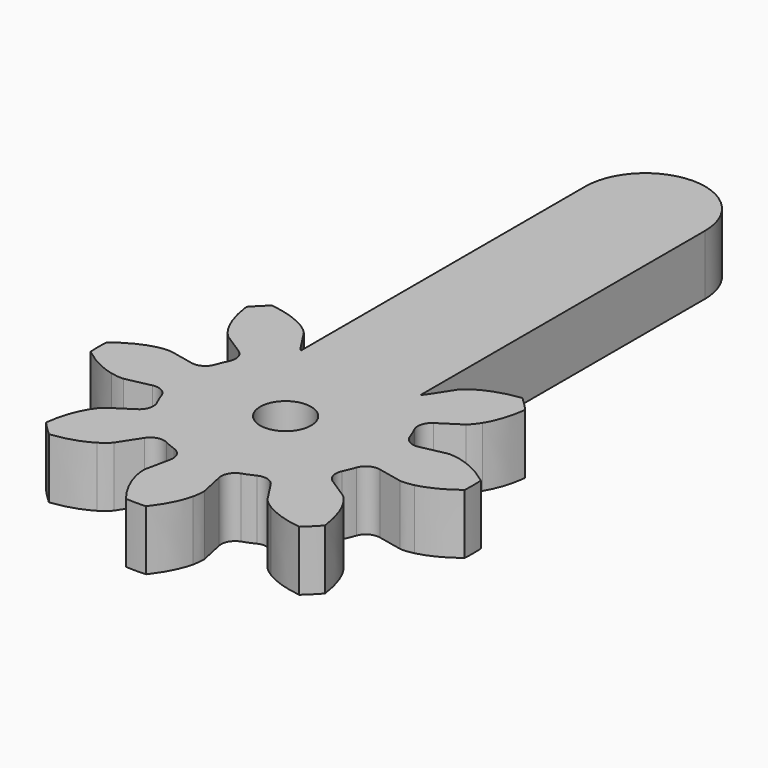
from build123d import *

# Parameters (mm, degrees)
CYLINDER004_R     = 1.7
CYLINDER004_DEPTH = 10
EXTRUDE006_DEPTH  = 4
EXTRUDE008_DEPTH  = 4


with BuildPart() as cylinder004:
    # Cylinder004 → Cylinder004 (new body)
    with BuildSketch(Plane(origin=(21, 0, -4), x_dir=(1, 0, 0), z_dir=(0, 0, 1))):
        Circle(CYLINDER004_R)
    extrude(amount=CYLINDER004_DEPTH)


with BuildPart() as extrude006:
    # InvoluteGear002 → Extrude006 (new body)
    with BuildSketch(Plane.XY):
        with BuildLine():
            Line((7.583619, -1.626335), (9.226112, -1.976129))
            add(Edge.make_bspline(
                [(9.226112, -1.976129), (9.323588, -1.988042), (9.615448, -2.006593), (10.112858, -1.891348)],
                knots=[0, 0, 0, 0, 1, 1, 1, 1], degree=3))
            add(Edge.make_bspline(
                [(10.112858, -1.891348), (10.701098, -1.749257), (11.528547, -1.419904), (12.486309, -0.674071)],
                knots=[0, 0, 0, 0, 1, 1, 1, 1], degree=3))
            ThreePointArc((12.486309, -0.674071), (12.504498, 0), (12.486309, 0.674071))
            add(Edge.make_bspline(
                [(12.486309, 0.674071), (11.528547, 1.419904), (10.701098, 1.749257), (10.112858, 1.891348)],
                knots=[0, 0, 0, 0, 1, 1, 1, 1], degree=3))
            add(Edge.make_bspline(
                [(10.112858, 1.891348), (9.615448, 2.006593), (9.323588, 1.988042), (9.226112, 1.976129)],
                knots=[0, 0, 0, 0, 1, 1, 1, 1], degree=3))
            Line((9.226112, 1.976129), (7.583619, 1.626335))
            ThreePointArc((7.583619, 1.626335), (6.928673, 1.725171), (6.502518, 2.232237))
            ThreePointArc((6.502518, 2.232237), (6.351672, 2.630949), (6.176404, 3.019545))
            ThreePointArc((6.176404, 3.019545), (6.119192, 3.679432), (6.512421, 4.212436))
            Line((6.512421, 4.212436), (7.92118, 5.126512))
            add(Edge.make_bspline(
                [(7.92118, 5.126512), (7.99853, 5.187015), (8.218024, 5.380273), (8.488255, 5.813485)],
                knots=[0, 0, 0, 0, 1, 1, 1, 1], degree=3))
            add(Edge.make_bspline(
                [(8.488255, 5.813485), (8.803731, 6.329908), (9.155937, 7.14789), (9.305795, 8.352514)],
                knots=[0, 0, 0, 0, 1, 1, 1, 1], degree=3))
            ThreePointArc((9.305795, 8.352514), (8.842015, 8.842015), (8.352514, 9.305795))
            add(Edge.make_bspline(
                [(8.352514, 9.305795), (7.14789, 9.155937), (6.329908, 8.803731), (5.813485, 8.488255)],
                knots=[0, 0, 0, 0, 1, 1, 1, 1], degree=3))
            add(Edge.make_bspline(
                [(5.813485, 8.488255), (5.380273, 8.218024), (5.187015, 7.99853), (5.126512, 7.92118)],
                knots=[0, 0, 0, 0, 1, 1, 1, 1], degree=3))
            Line((5.126512, 7.92118), (4.212436, 6.512421))
            ThreePointArc((4.212436, 6.512421), (3.679432, 6.119192), (3.019545, 6.176404))
            ThreePointArc((3.019545, 6.176404), (2.630949, 6.351672), (2.232237, 6.502518))
            ThreePointArc((2.232237, 6.502518), (1.725171, 6.928673), (1.626335, 7.583619))
            Line((1.626335, 7.583619), (1.976129, 9.226112))
            add(Edge.make_bspline(
                [(1.976129, 9.226112), (1.988042, 9.323588), (2.006593, 9.615448), (1.891348, 10.112858)],
                knots=[0, 0, 0, 0, 1, 1, 1, 1], degree=3))
            add(Edge.make_bspline(
                [(1.891348, 10.112858), (1.749257, 10.701098), (1.419904, 11.528547), (0.674071, 12.486309)],
                knots=[0, 0, 0, 0, 1, 1, 1, 1], degree=3))
            ThreePointArc((0.674071, 12.486309), (0, 12.504498), (-0.674071, 12.486309))
            add(Edge.make_bspline(
                [(-0.674071, 12.486309), (-1.419904, 11.528547), (-1.749257, 10.701098), (-1.891348, 10.112858)],
                knots=[0, 0, 0, 0, 1, 1, 1, 1], degree=3))
            add(Edge.make_bspline(
                [(-1.891348, 10.112858), (-2.006593, 9.615448), (-1.988042, 9.323588), (-1.976129, 9.226112)],
                knots=[0, 0, 0, 0, 1, 1, 1, 1], degree=3))
            Line((-1.976129, 9.226112), (-1.626335, 7.583619))
            ThreePointArc((-1.626335, 7.583619), (-1.725171, 6.928673), (-2.232237, 6.502518))
            ThreePointArc((-2.232237, 6.502518), (-2.630949, 6.351672), (-3.019545, 6.176404))
            ThreePointArc((-3.019545, 6.176404), (-3.679432, 6.119192), (-4.212436, 6.512421))
            Line((-4.212436, 6.512421), (-5.126512, 7.92118))
            add(Edge.make_bspline(
                [(-5.126512, 7.92118), (-5.187015, 7.99853), (-5.380273, 8.218024), (-5.813485, 8.488255)],
                knots=[0, 0, 0, 0, 1, 1, 1, 1], degree=3))
            add(Edge.make_bspline(
                [(-5.813485, 8.488255), (-6.329908, 8.803731), (-7.14789, 9.155937), (-8.352514, 9.305795)],
                knots=[0, 0, 0, 0, 1, 1, 1, 1], degree=3))
            ThreePointArc((-8.352514, 9.305795), (-8.842015, 8.842015), (-9.305795, 8.352514))
            add(Edge.make_bspline(
                [(-9.305795, 8.352514), (-9.155937, 7.14789), (-8.803731, 6.329908), (-8.488255, 5.813485)],
                knots=[0, 0, 0, 0, 1, 1, 1, 1], degree=3))
            add(Edge.make_bspline(
                [(-8.488255, 5.813485), (-8.218024, 5.380273), (-7.99853, 5.187015), (-7.92118, 5.126512)],
                knots=[0, 0, 0, 0, 1, 1, 1, 1], degree=3))
            Line((-7.92118, 5.126512), (-6.512421, 4.212436))
            ThreePointArc((-6.512421, 4.212436), (-6.119192, 3.679432), (-6.176404, 3.019545))
            ThreePointArc((-6.176404, 3.019545), (-6.351672, 2.630949), (-6.502518, 2.232237))
            ThreePointArc((-6.502518, 2.232237), (-6.928673, 1.725171), (-7.583619, 1.626335))
            Line((-7.583619, 1.626335), (-9.226112, 1.976129))
            add(Edge.make_bspline(
                [(-9.226112, 1.976129), (-9.323588, 1.988042), (-9.615448, 2.006593), (-10.112858, 1.891348)],
                knots=[0, 0, 0, 0, 1, 1, 1, 1], degree=3))
            add(Edge.make_bspline(
                [(-10.112858, 1.891348), (-10.701098, 1.749257), (-11.528547, 1.419904), (-12.486309, 0.674071)],
                knots=[0, 0, 0, 0, 1, 1, 1, 1], degree=3))
            ThreePointArc((-12.486309, 0.674071), (-12.504498, 0), (-12.486309, -0.674071))
            add(Edge.make_bspline(
                [(-12.486309, -0.674071), (-11.528547, -1.419904), (-10.701098, -1.749257), (-10.112858, -1.891348)],
                knots=[0, 0, 0, 0, 1, 1, 1, 1], degree=3))
            add(Edge.make_bspline(
                [(-10.112858, -1.891348), (-9.615448, -2.006593), (-9.323588, -1.988042), (-9.226112, -1.976129)],
                knots=[0, 0, 0, 0, 1, 1, 1, 1], degree=3))
            Line((-9.226112, -1.976129), (-7.583619, -1.626335))
            ThreePointArc((-7.583619, -1.626335), (-6.928673, -1.725171), (-6.502518, -2.232237))
            ThreePointArc((-6.502518, -2.232237), (-6.351672, -2.630949), (-6.176404, -3.019545))
            ThreePointArc((-6.176404, -3.019545), (-6.119192, -3.679432), (-6.512421, -4.212436))
            Line((-6.512421, -4.212436), (-7.92118, -5.126512))
            add(Edge.make_bspline(
                [(-7.92118, -5.126512), (-7.99853, -5.187015), (-8.218024, -5.380273), (-8.488255, -5.813485)],
                knots=[0, 0, 0, 0, 1, 1, 1, 1], degree=3))
            add(Edge.make_bspline(
                [(-8.488255, -5.813485), (-8.803731, -6.329908), (-9.155937, -7.14789), (-9.305795, -8.352514)],
                knots=[0, 0, 0, 0, 1, 1, 1, 1], degree=3))
            ThreePointArc((-9.305795, -8.352514), (-8.842015, -8.842015), (-8.352514, -9.305795))
            add(Edge.make_bspline(
                [(-8.352514, -9.305795), (-7.14789, -9.155937), (-6.329908, -8.803731), (-5.813485, -8.488255)],
                knots=[0, 0, 0, 0, 1, 1, 1, 1], degree=3))
            add(Edge.make_bspline(
                [(-5.813485, -8.488255), (-5.380273, -8.218024), (-5.187015, -7.99853), (-5.126512, -7.92118)],
                knots=[0, 0, 0, 0, 1, 1, 1, 1], degree=3))
            Line((-5.126512, -7.92118), (-4.212436, -6.512421))
            ThreePointArc((-4.212436, -6.512421), (-3.679432, -6.119192), (-3.019545, -6.176404))
            ThreePointArc((-3.019545, -6.176404), (-2.630949, -6.351672), (-2.232237, -6.502518))
            ThreePointArc((-2.232237, -6.502518), (-1.725171, -6.928673), (-1.626335, -7.583619))
            Line((-1.626335, -7.583619), (-1.976129, -9.226112))
            add(Edge.make_bspline(
                [(-1.976129, -9.226112), (-1.988042, -9.323588), (-2.006593, -9.615448), (-1.891348, -10.112858)],
                knots=[0, 0, 0, 0, 1, 1, 1, 1], degree=3))
            add(Edge.make_bspline(
                [(-1.891348, -10.112858), (-1.749257, -10.701098), (-1.419904, -11.528547), (-0.674071, -12.486309)],
                knots=[0, 0, 0, 0, 1, 1, 1, 1], degree=3))
            ThreePointArc((-0.674071, -12.486309), (0, -12.504498), (0.674071, -12.486309))
            add(Edge.make_bspline(
                [(0.674071, -12.486309), (1.419904, -11.528547), (1.749257, -10.701098), (1.891348, -10.112858)],
                knots=[0, 0, 0, 0, 1, 1, 1, 1], degree=3))
            add(Edge.make_bspline(
                [(1.891348, -10.112858), (2.006593, -9.615448), (1.988042, -9.323588), (1.976129, -9.226112)],
                knots=[0, 0, 0, 0, 1, 1, 1, 1], degree=3))
            Line((1.976129, -9.226112), (1.626335, -7.583619))
            ThreePointArc((1.626335, -7.583619), (1.725171, -6.928673), (2.232237, -6.502518))
            ThreePointArc((2.232237, -6.502518), (2.630949, -6.351672), (3.019545, -6.176404))
            ThreePointArc((3.019545, -6.176404), (3.679432, -6.119192), (4.212436, -6.512421))
            Line((4.212436, -6.512421), (5.126512, -7.92118))
            add(Edge.make_bspline(
                [(5.126512, -7.92118), (5.187015, -7.99853), (5.380273, -8.218024), (5.813485, -8.488255)],
                knots=[0, 0, 0, 0, 1, 1, 1, 1], degree=3))
            add(Edge.make_bspline(
                [(5.813485, -8.488255), (6.329908, -8.803731), (7.14789, -9.155937), (8.352514, -9.305795)],
                knots=[0, 0, 0, 0, 1, 1, 1, 1], degree=3))
            ThreePointArc((8.352514, -9.305795), (8.842015, -8.842015), (9.305795, -8.352514))
            add(Edge.make_bspline(
                [(9.305795, -8.352514), (9.155937, -7.14789), (8.803731, -6.329908), (8.488255, -5.813485)],
                knots=[0, 0, 0, 0, 1, 1, 1, 1], degree=3))
            add(Edge.make_bspline(
                [(8.488255, -5.813485), (8.218024, -5.380273), (7.99853, -5.187015), (7.92118, -5.126512)],
                knots=[0, 0, 0, 0, 1, 1, 1, 1], degree=3))
            Line((7.92118, -5.126512), (6.512421, -4.212436))
            ThreePointArc((6.512421, -4.212436), (6.119192, -3.679432), (6.176404, -3.019545))
            ThreePointArc((6.176404, -3.019545), (6.351672, -2.630949), (6.502518, -2.232237))
            ThreePointArc((6.502518, -2.232237), (6.928673, -1.725171), (7.583619, -1.626335))
        make_face()
    extrude(amount=EXTRUDE006_DEPTH)


with BuildPart() as extrude006_1:
    # Extrude006 placement: moved
    add(extrude006.part.moved(Location((21, 0, 0))))


with BuildPart() as cut003:
    # Sketch003 → Extrude008 (new body)
    with BuildSketch(Plane.XY):
        with BuildLine():
            ThreePointArc((-4, 0), (0, -4), (4, 0))
            Line((4, 0), (4, 30))
            ThreePointArc((4, 30), (0, 34), (-4, 30))
            Line((-4, 0), (-4, 30))
        make_face()
    extrude(amount=EXTRUDE008_DEPTH)


with BuildPart() as cut003_1:
    # Extrude008 placement: moved
    add(cut003.part.moved(Location((21, 0, 0))))

    # Fusion001: union Extrude006
    add(extrude006_1.part)

    # Cut003: cut Cylinder004
    add(cylinder004.part, mode=Mode.SUBTRACT)


solid = cut003_1.part
